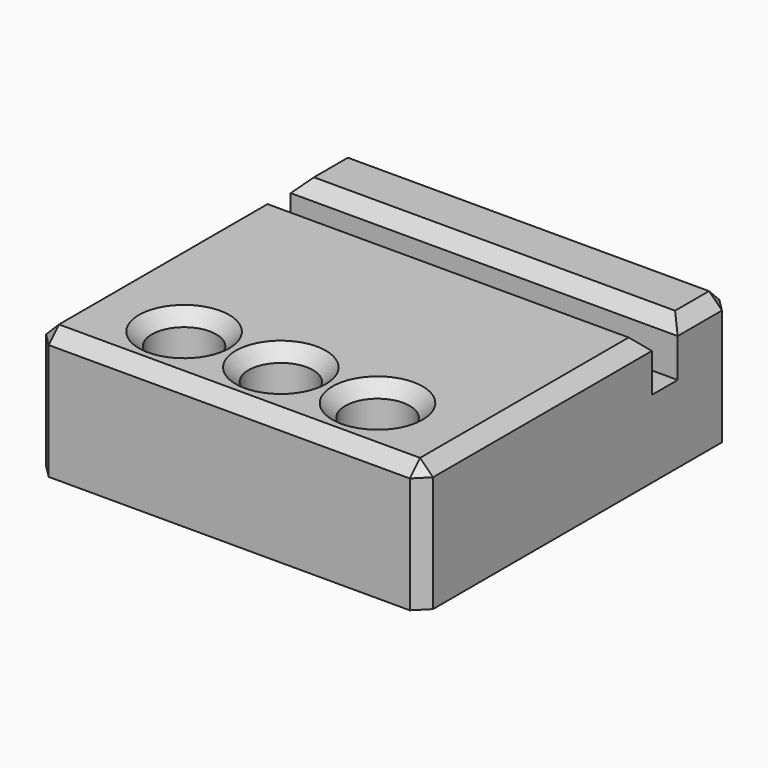
from build123d import *

# Parameters (mm, degrees)
F0_W     = 60
F0_H     = 60
F1_DEPTH = 20
F2_W     = 60
F2_H     = 5
F3_DEPTH = 8
F4_R     = 5
F5_DEPTH = 15
F6_SIZE  = 2


with BuildPart() as f1:
    # F0 (on Top) → F1 (new body)
    with BuildSketch(Plane.XY):
        Rectangle(F0_W, F0_H)
    extrude(amount=F1_DEPTH)

    # F2 (on face) → F3 (cut)
    with BuildSketch(Plane.XY.offset(20)):
        with Locations((0, 16.9222388044)):
            Rectangle(F2_W, F2_H)
    extrude(amount=-F3_DEPTH, mode=Mode.SUBTRACT)

    # F4 (on face) → F5 (cut)
    with BuildSketch(Plane.XY.offset(20)):
        with Locations((0, -20)):
            Circle(F4_R)
        with Locations((15, -20)):
            Circle(F4_R)
        with Locations((-15, -20)):
            Circle(F4_R)
    extrude(amount=-F5_DEPTH, mode=Mode.SUBTRACT)

    # F6
    f6_edges = [f1.edges().sort_by_distance(p)[0] for p in [
        (0, -30, 20),
        (30, -7.788881, 20),
        (30, 24.711119, 20),
        (0, 30, 20),
        (-30, -7.788881, 20),
        (-30, 24.711119, 20),
        (10, -20, 20),
        (-5, -20, 20),
        (-20, -20, 20),
        (0, 19.422239, 20),
        (0, 14.422239, 20),
        (30, -30, 10),
        (-30, -30, 10),
        (-30, 30, 10),
        (30, 30, 10),
    ]]
    chamfer(f6_edges, length=F6_SIZE)


solid = f1.part
